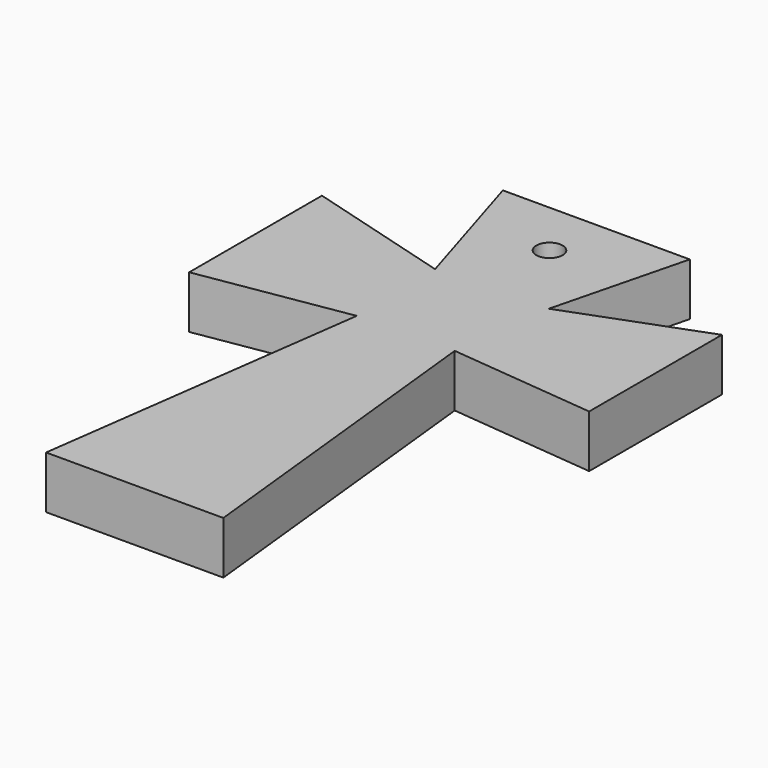
from build123d import *

# Parameters (mm, degrees)
F1_DEPTH = 6
F3_D     = 3


with BuildPart() as f1:
    # F0 (on Top) → F1 (new body)
    with BuildSketch(Plane.XY):
        Polygon((-44.639312, 37.259057), (-27.711742, 40.018987), (-32.863609, 2.115946), (-12.624124, 2.115946), (-16.672021, 40.202979), (0, 38.547024), (0, 57.498544), (-15.200059, 51.794685), (-11.336157, 67.080933), (-32.679617, 67.080933), (-27.895737, 51.426694), (-44.639312, 56.210574), align=None)
    extrude(amount=F1_DEPTH)

    # F3 (through all)
    with Locations(Plane.XY.offset(6)):
        with Locations((-22.198644, 60.63645)):
            Hole(F3_D / 2)


solid = f1.part
